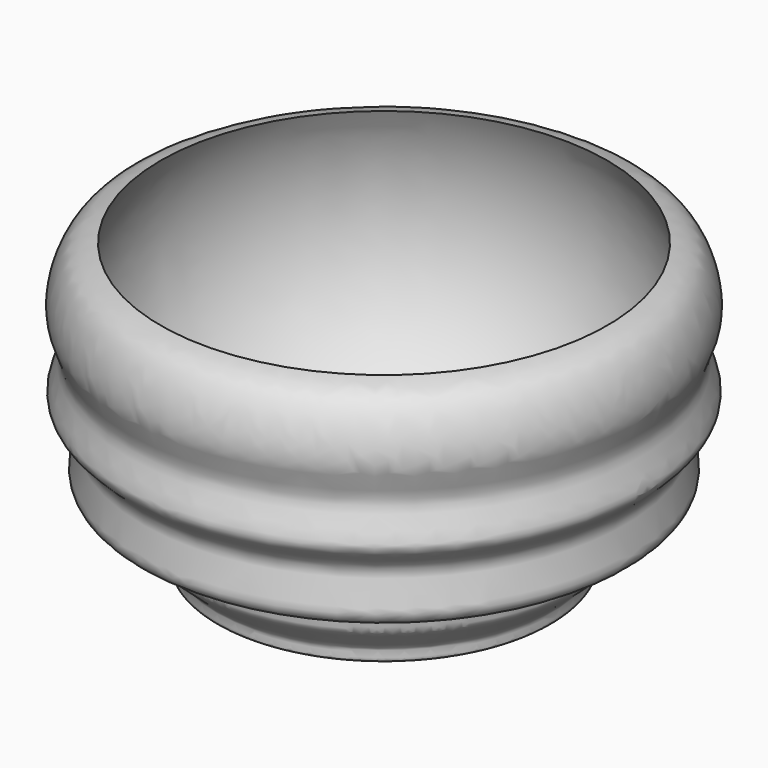
from build123d import *


with BuildPart() as f1:
    # F0 (on Front) → F1 (revolve)
    with BuildSketch(Plane.XZ):
        with BuildLine():
            ThreePointArc((-33.6616473577, -73.117941618), (-63.8381491824, -42.7008378259), (-60.3082887828, 0))
            add(Edge.make_bspline(
                [(-60.3082887828, 0), (-62.687570302, -0.4477807484), (-68.366562465, -1.5165669935), (-73.3684396111, -17.1671017942), (-66.2404009377, -25.692906594), (-72.718613637, -35.3341715423), (-68.5108194248, -39.3820679903), (-63.4500405188, -43.9198946093), (-67.4748100662, -53.0724959822), (-64.8290690157, -57.8213177663), (-52.3023510017, -60.1818766616), (-55.2781750108, -65.381881595), (-43.4869086433, -72.1441398363), (-47.2957922103, -78.0212956371), (-33.9150751474, -76.6458230098), (-24.213552475, -75.6485536695)],
                knots=[0, 0, 0, 0, 0.0727336183, 0.1736043613, 0.258558881, 0.3401930207, 0.3989486672, 0.4648583071, 0.5438864008, 0.6026420473, 0.6898544058, 0.7407373958, 0.8315750931, 0.8778856137, 1, 1, 1, 1], degree=3))
            Line((-24.213552475, -75.6485536695), (0, -75.6485536695))
            Line((0, -75.6485536695), (0, -73.117941618))
            Line((0, -73.117941618), (-24.213552475, -73.117941618))
            Line((-24.213552475, -73.117941618), (-33.6616473577, -73.117941618))
        make_face()
    revolve(axis=Axis((0, 0, -37.8242768347), (0, 0, 1)))


solid = f1.part
